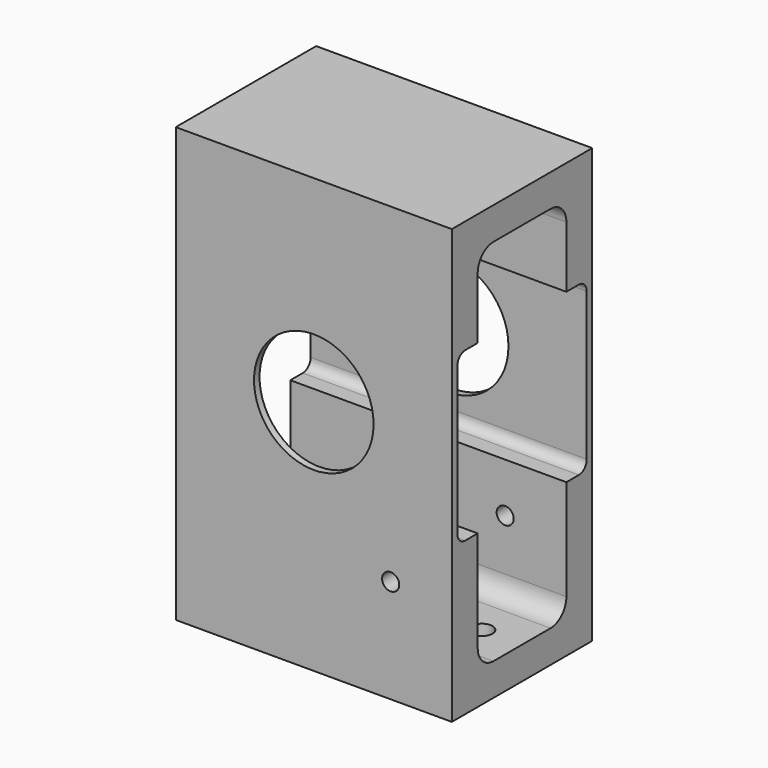
from build123d import *

# Parameters (mm, degrees)
F0_W     = 177.8
F0_H     = 279.4
F0_R     = 38.5
F1_DEPTH = 56.515
F3_DEPTH = 177.801
F5_DEPTH = 177.801
F6_R     = 6.746875
F7_DEPTH = 20.8223992262
F8_R     = 5.5
F9_DEPTH = 113.031


with BuildPart() as f1:
    # F0 (on Front) → F1 (new body, symmetric)
    with BuildSketch(Plane.XZ):
        with Locations((0, -12.7)):
            Rectangle(F0_W, F0_H)
        Circle(F0_R, mode=Mode.SUBTRACT)
    extrude(amount=F1_DEPTH, both=True)

    # F2 (on face) → F3 (cut, through all)
    with BuildSketch(Plane.YZ.offset(88.9)):
        with BuildLine():
            ThreePointArc((22.9936007738, -131.5786007738), (31.9738568949, -127.8588568949), (35.6936007738, -118.8786007738))
            Line((35.6936007738, -118.8786007738), (35.6936007738, 93.4786007738))
            ThreePointArc((35.6936007738, 93.4786007738), (31.9738568949, 102.4588568949), (22.9936007738, 106.1786007738))
            Line((22.9936007738, 106.1786007738), (-22.9936007738, 106.1786007738))
            ThreePointArc((-22.9936007738, 106.1786007738), (-31.9738568949, 102.4588568949), (-35.6936007738, 93.4786007738))
            Line((-35.6936007738, 93.4786007738), (-35.6936007738, -118.8786007738))
            ThreePointArc((-35.6936007738, -118.8786007738), (-31.9738568949, -127.8588568949), (-22.9936007738, -131.5786007738))
            Line((-22.9936007738, -131.5786007738), (22.9936007738, -131.5786007738))
        make_face()
    extrude(amount=-F3_DEPTH, mode=Mode.SUBTRACT)

    # F4 (on face) → F5 (cut, through all)
    with BuildSketch(Plane(origin=(-88.9, 0, 0), x_dir=(0, -1, 0), z_dir=(-1, 0, 0))):
        with BuildLine():
            Line((45.72, 53.975), (-45.72, 53.975))
            ThreePointArc((-45.72, 53.975), (-50.2101280605, 52.1151280605), (-52.07, 47.625))
            Line((-52.07, 47.625), (-52.07, -47.625))
            ThreePointArc((-52.07, -47.625), (-50.2101280605, -52.1151280605), (-45.72, -53.975))
            Line((-45.72, -53.975), (45.72, -53.975))
            ThreePointArc((45.72, -53.975), (50.2101280605, -52.1151280605), (52.07, -47.625))
            Line((52.07, -47.625), (52.07, 47.625))
            ThreePointArc((52.07, 47.625), (50.2101280605, 52.1151280605), (45.72, 53.975))
        make_face()
    extrude(amount=-F5_DEPTH, mode=Mode.SUBTRACT)

    # F6 (on face) → F7 (cut, through all)
    with BuildSketch(Plane.XY.offset(-131.5786007738)):
        with Locations((63.103125, 0)):
            Circle(F6_R)
        with Locations((-63.103125, 0)):
            Circle(F6_R)
    extrude(amount=-F7_DEPTH, mode=Mode.SUBTRACT)

    # F8 (on face) → F9 (cut, through all)
    with BuildSketch(Plane.XZ.offset(56.515)):
        with Locations((49.5, -85.7365149747)):
            Circle(F8_R)
    extrude(amount=-F9_DEPTH, mode=Mode.SUBTRACT)


solid = f1.part
